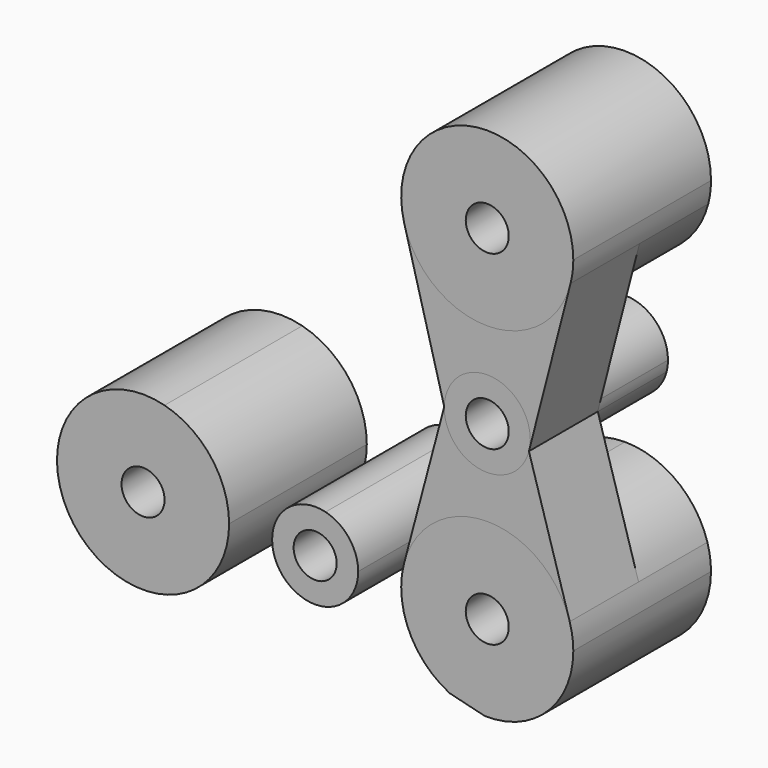
from build123d import *

# Parameters (mm, degrees)
F1_DEPTH = 50.8
F2_DEPTH = 25.4
F3_D     = 12.7


with BuildPart() as f1:
    # F0 (on Front) → F1 (new body)
    with BuildSketch(Plane.XZ):
        with BuildLine():
            ThreePointArc((164.135504, 26.641296), (135.405806, 51.822104), (114.208488, 20.039367))
            ThreePointArc((114.208488, 20.039367), (123.284436, 6.481323), (138.735504, 1.241296))
            ThreePointArc((138.735504, 1.241296), (154.289764, 6.560832), (163.328948, 20.291296))
            ThreePointArc((163.328948, 20.291296), (163.933058, 23.440787), (164.135504, 26.641296))
        make_face()
        with BuildLine():
            ThreePointArc((138.735504, -11.458704), (129.844088, -15.090478), (126.037966, -23.908669))
            ThreePointArc((126.037966, -23.908669), (129.667278, -33.05012), (138.735504, -36.858704))
            Line((138.735504, -36.858704), (138.735504, -24.158704))
            Line((138.735504, -24.158704), (138.735504, -11.458704))
        make_face()
        with BuildLine():
            Line((138.735504, -24.158704), (138.735504, -36.858704))
            ThreePointArc((138.735504, -36.858704), (146.512634, -34.198936), (151.032226, -27.333704))
            ThreePointArc((151.032226, -27.333704), (151.334281, -25.758959), (151.435504, -24.158704))
            ThreePointArc((151.435504, -24.158704), (147.71576, -15.178448), (138.735504, -11.458704))
            Line((138.735504, -11.458704), (138.735504, -24.158704))
        make_face()
        with BuildLine():
            ThreePointArc((44.397689, -99.298398), (57.502383, -90.135998), (62.535504, -74.958704))
            ThreePointArc((62.535504, -74.958704), (57.21603, -59.404526), (43.485704, -50.365312))
            ThreePointArc((43.485704, -50.365312), (11.739914, -75.432012), (44.397689, -99.298398))
        make_face()
        with BuildLine():
            Line((100.635504, -74.958704), (87.935504, -74.958704))
            Line((87.935504, -74.958704), (75.235504, -74.958704))
            ThreePointArc((75.235504, -74.958704), (77.895273, -82.735834), (84.760504, -87.255427))
            Line((84.760504, -87.255427), (85.039791, -87.324174))
            ThreePointArc((85.039791, -87.324174), (95.825829, -84.910226), (100.635504, -74.958704))
        make_face()
        with BuildLine():
            Line((75.235504, -74.958704), (87.935504, -74.958704))
            Line((87.935504, -74.958704), (100.635504, -74.958704))
            ThreePointArc((100.635504, -74.958704), (97.944857, -67.141873), (91.013007, -62.63722))
            ThreePointArc((91.013007, -62.63722), (80.118672, -64.949352), (75.235504, -74.958704))
        make_face()
        with BuildLine():
            Line((138.735504, -74.958704), (113.335504, -74.958704))
            ThreePointArc((113.335504, -74.958704), (117.210692, -88.443601), (127.653807, -97.813813))
            Line((127.653807, -97.813813), (137.942033, -100.346308))
            ThreePointArc((137.942033, -100.346308), (156.413256, -93.197594), (164.135504, -74.958704))
            ThreePointArc((164.135504, -74.958704), (163.86903, -71.289114), (163.075198, -67.69652))
            ThreePointArc((163.075198, -67.69652), (153.912798, -54.591826), (138.735504, -49.558704))
            Line((138.735504, -49.558704), (138.735504, -74.958704))
        make_face()
        with BuildLine():
            ThreePointArc((114.189944, -68.426059), (113.55002, -71.664561), (113.335504, -74.958704))
            Line((113.335504, -74.958704), (138.735504, -74.958704))
            Line((138.735504, -74.958704), (138.735504, -49.558704))
            ThreePointArc((138.735504, -49.558704), (123.255989, -54.820566), (114.189944, -68.426059))
        make_face()
    extrude(amount=-F1_DEPTH)

    # F3 (through all)
    with Locations(Plane.XZ):
        with Locations((138.735504, -24.158704), (138.735504, 26.641296), (138.735504, -74.958704), (87.935504, -74.958704), (37.135504, -74.958704)):
            Hole(F3_D / 2)


with BuildPart() as f2:
    # F0 (on Front) → F2 (new body)
    with BuildSketch(Plane.XZ):
        with BuildLine():
            Line((114.208488, 20.039367), (126.037966, -23.908669))
            ThreePointArc((126.037966, -23.908669), (129.844088, -15.090478), (138.735504, -11.458704))
            Line((138.735504, -11.458704), (138.735504, 1.241296))
            ThreePointArc((138.735504, 1.241296), (123.284436, 6.481323), (114.208488, 20.039367))
        make_face()
        with BuildLine():
            Line((138.735504, 1.241296), (138.735504, -11.458704))
            ThreePointArc((138.735504, -11.458704), (147.71576, -15.178448), (151.435504, -24.158704))
            ThreePointArc((151.435504, -24.158704), (151.334281, -25.758959), (151.032226, -27.333704))
            Line((151.032226, -27.333704), (163.328948, 20.291296))
            ThreePointArc((163.328948, 20.291296), (154.289764, 6.560832), (138.735504, 1.241296))
        make_face()
        with BuildLine():
            Line((126.037966, -23.908669), (114.189944, -68.426059))
            ThreePointArc((114.189944, -68.426059), (123.255989, -54.820566), (138.735504, -49.558704))
            Line((138.735504, -49.558704), (138.735504, -36.858704))
            ThreePointArc((138.735504, -36.858704), (129.667278, -33.05012), (126.037966, -23.908669))
        make_face()
        with BuildLine():
            Line((138.735504, -36.858704), (138.735504, -49.558704))
            ThreePointArc((138.735504, -49.558704), (153.912798, -54.591826), (163.075198, -67.69652))
            Line((163.075198, -67.69652), (151.032226, -27.333704))
            ThreePointArc((151.032226, -27.333704), (146.512634, -34.198936), (138.735504, -36.858704))
        make_face()
    extrude(amount=-F2_DEPTH)


solid = Compound([f1.part, f2.part])
